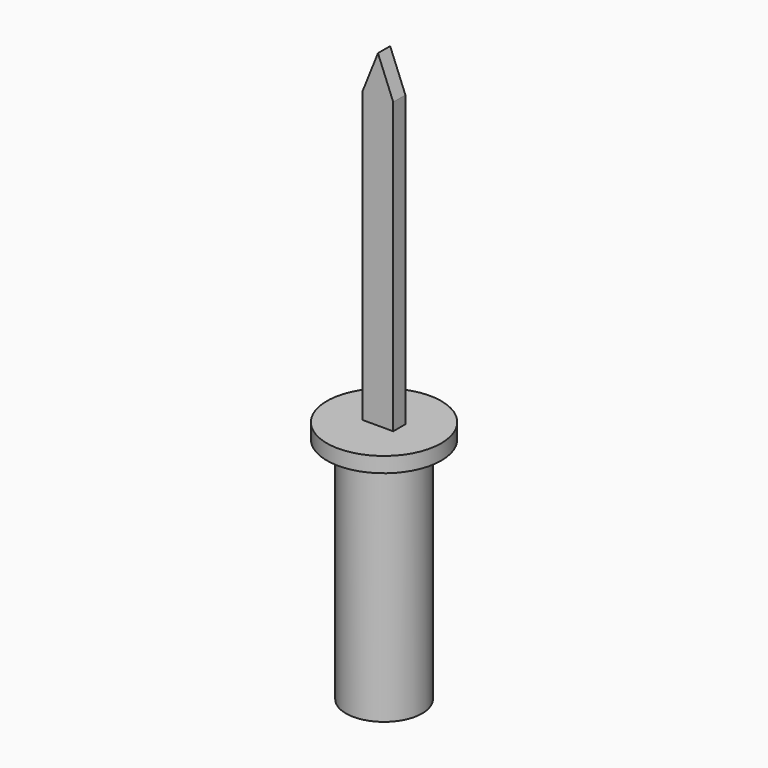
from build123d import *

# Parameters (mm, degrees)
F0_R     = 12.7
F1_DEPTH = 76.2
F2_R     = 19.05
F3_DEPTH = 5.08
F5_DEPTH = 2.54
F7_DEPTH = 2.54


with BuildPart() as f1:
    # F0 (on Top) → F1 (new body)
    with BuildSketch(Plane.XY):
        Circle(F0_R)
    extrude(amount=-F1_DEPTH)

    # F2 (on Top) → F3 (join)
    with BuildSketch(Plane.XY):
        Circle(F2_R)
    extrude(amount=F3_DEPTH)

    # F4 (on Front) → F5 (join)
    with BuildSketch(Plane.XZ):
        Polygon((-5.08, 0), (0, 0), (0, 114.3), (-5.08, 101.6), align=None)
        Polygon((0, 114.3), (0, 0), (5.08, 0), (5.08, 101.6), align=None)
    extrude(amount=-F5_DEPTH)

    # F6 (on Front) → F7 (join)
    with BuildSketch(Plane.XZ):
        Polygon((-5.08, 0), (0, 0), (0, 114.3), (-5.08, 101.6), align=None)
        Polygon((0, 114.3), (0, 0), (5.08, 0), (5.08, 101.6), align=None)
    extrude(amount=F7_DEPTH)


solid = f1.part
